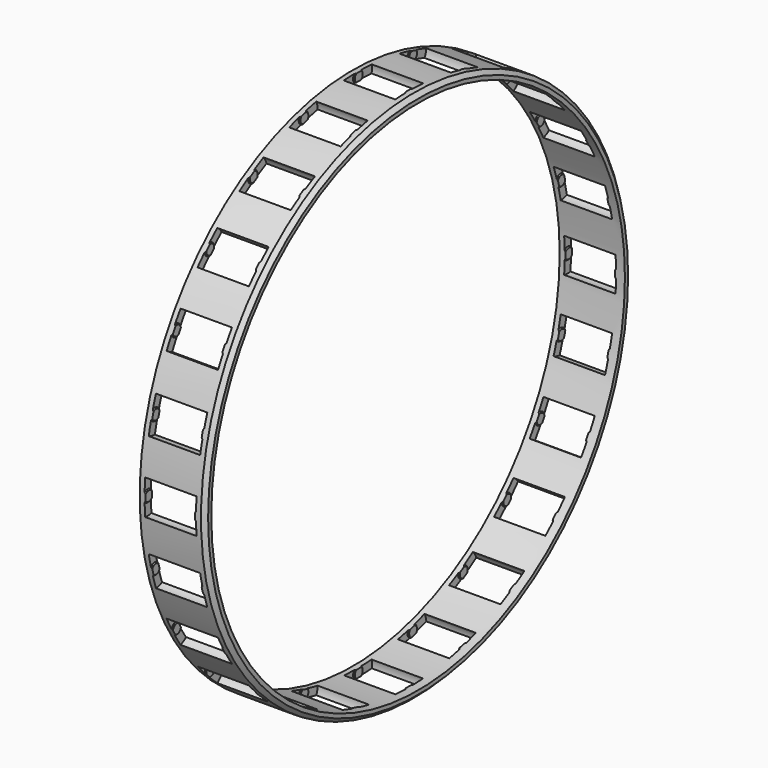
from build123d import *

# Parameters (mm, degrees)
SKETCH017_R        = 53.9
SKETCH017_R_2      = 52.3
PAD011_DEPTH       = 6.2
PAD011_DEPTH_BACK  = 7
POLARPATTERN_COUNT = 24
CHAMFER_SIZE       = 0.8


with BuildPart() as part:
    # Sketch017 → Pad011 (new body, two sides)
    with BuildSketch(Plane.YZ) as pad011_sk:
        Circle(SKETCH017_R)
        Circle(SKETCH017_R_2, mode=Mode.SUBTRACT)
    extrude(amount=-PAD011_DEPTH)
    extrude(pad011_sk.sketch, amount=PAD011_DEPTH_BACK)

    # Sketch018 → Groove (revolve, cut)
    with BuildSketch(Plane(origin=(0, 0, 53.1), x_dir=(1, 0, 0), z_dir=(0, -1, 0))):
        Polygon((-5.2, 3.6), (5.2, 3.6), (5.2, 1.2), (5, 1), (5, 0), (-5, 0), (-5, 1), (-5.2, 1.2), align=None)
    groove = revolve(axis=Axis((0, 0, 53.1), (1, 0, 0)), mode=Mode.SUBTRACT)

    # PolarPattern: Groove ×24 about axis
    polarpattern_axis = Axis((0, 0, 0), (1, 0, 0))
    for i in range(1, POLARPATTERN_COUNT):
        add(groove.rotate(polarpattern_axis, i * 360 / POLARPATTERN_COUNT), mode=Mode.SUBTRACT)

    # Chamfer
    chamfer_edges = [part.edges().sort_by_distance(p)[0] for p in [
        (7, -53.9, 0),
    ]]
    chamfer(chamfer_edges, length=CHAMFER_SIZE)


solid = part.part
